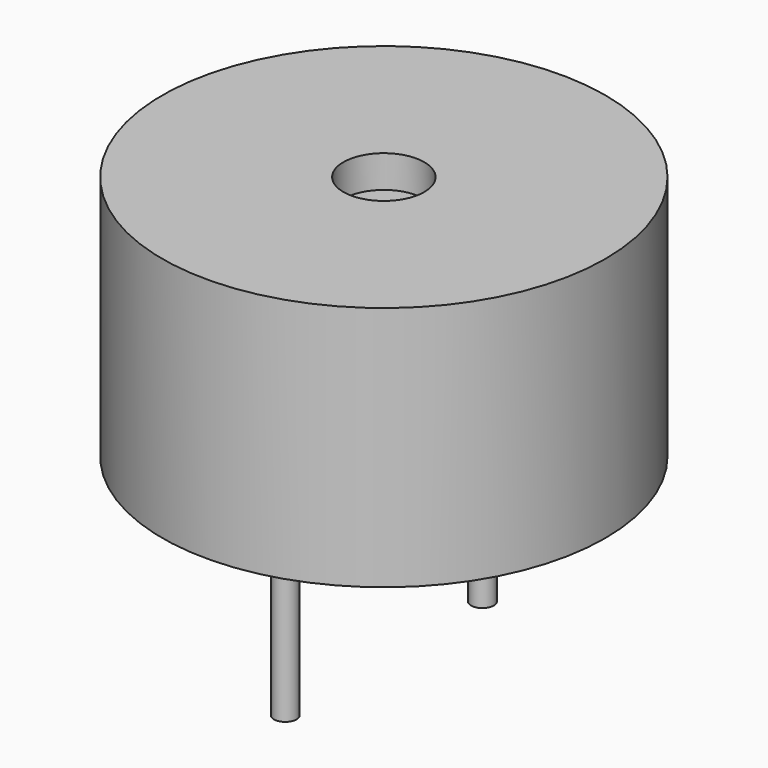
from build123d import *

# Parameters (mm, degrees)
F0_R     = 6.85
F1_DEPTH = 7.6
F2_R     = 1.25
F3_DEPTH = 1
F4_R     = 0.35
F5_DEPTH = 5.5


with BuildPart() as f1:
    # F0 (on Top) → F1 (new body)
    with BuildSketch(Plane.XY):
        Circle(F0_R)
    extrude(amount=F1_DEPTH)

    # F2 (on face) → F3 (cut)
    with BuildSketch(Plane.XY.offset(7.6)):
        Circle(F2_R)
    extrude(amount=-F3_DEPTH, mode=Mode.SUBTRACT)

    # F4 (on face) → F5 (join)
    with BuildSketch(Plane(origin=(0, 0, 0), x_dir=(1, 0, 0), z_dir=(0, 0, -1))):
        with Locations((0, 3.81)):
            Circle(F4_R)
        with Locations((0, -3.81)):
            Circle(F4_R)
    extrude(amount=F5_DEPTH)


solid = f1.part
